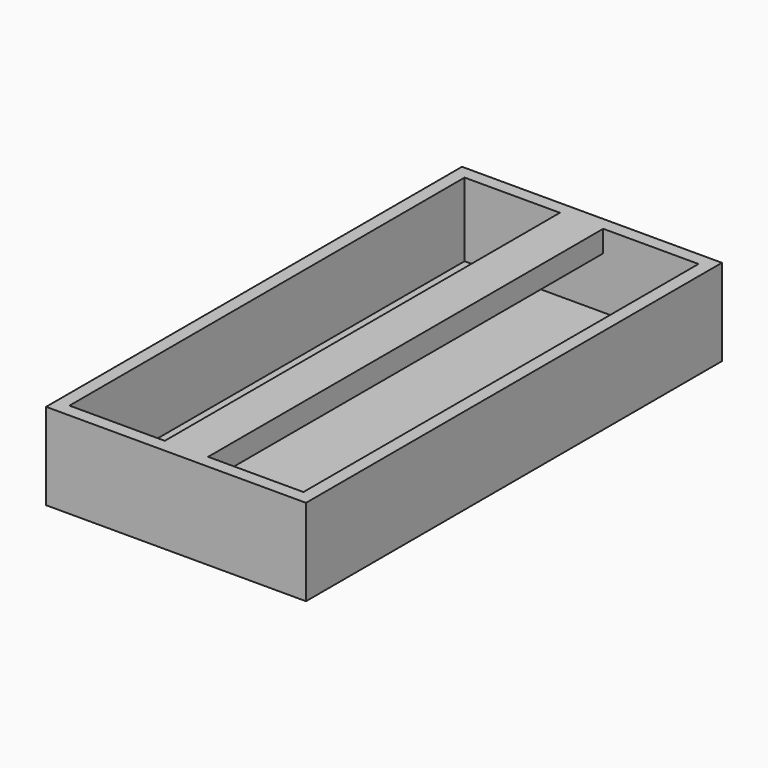
from build123d import *

# Parameters (mm, degrees)
F0_W     = 60
F0_H     = 120
F1_DEPTH = 20
F2_T     = -3
F3_W     = 10
F3_H     = 5
F4_DEPTH = 60
F5_DEPTH = 60


with BuildPart() as f1:
    # F0 (on Top) → F1 (new body)
    with BuildSketch(Plane.XY):
        Rectangle(F0_W, F0_H)
    extrude(amount=F1_DEPTH)

    # F2
    f2_openings = [f1.faces().sort_by_distance(p)[0] for p in [
        (0, 0, 20),
    ]]
    offset(amount=F2_T, openings=f2_openings)

    # F3 (on Front) → F4 (join)
    with BuildSketch(Plane.XZ):
        with Locations((0, 17.5)):
            Rectangle(F3_W, F3_H)
    extrude(amount=F4_DEPTH)

    # F3 (on Front) → F5 (join)
    with BuildSketch(Plane.XZ):
        with Locations((0, 17.5)):
            Rectangle(F3_W, F3_H)
    extrude(amount=-F5_DEPTH)


solid = f1.part
